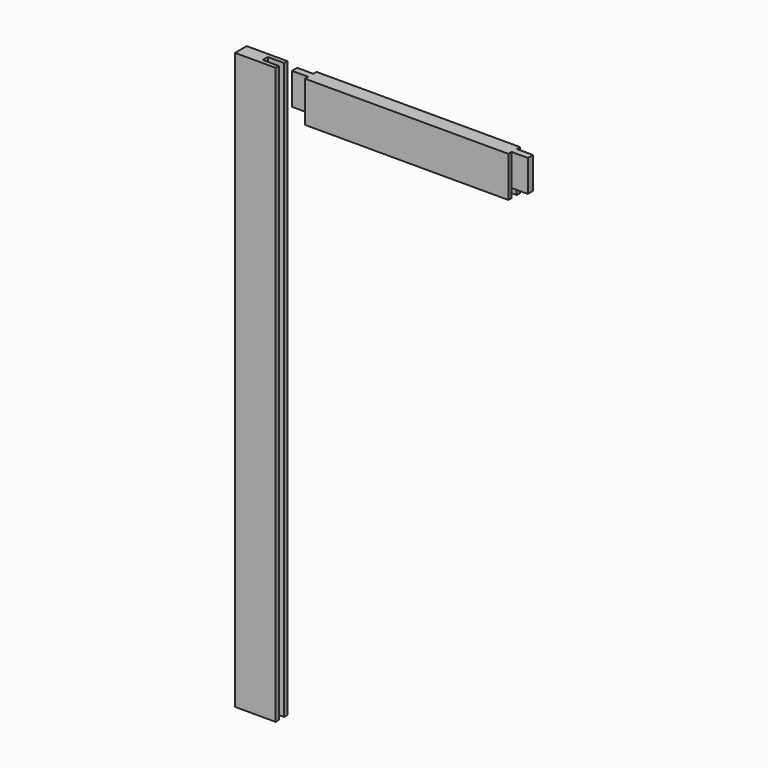
from build123d import *

# Parameters (mm, degrees)
F0_W      = 250
F0_H      = 50
F1_DEPTH  = 9
F0_W_2    = 50
F0_H_2    = 708
F2_W      = 8
F2_H      = 708
F3_DEPTH  = 11
F4_W      = 8
F4_H      = 39
F5_DEPTH  = 9
F6_W      = 8
F6_H      = 708
F7_DEPTH  = 11
F8_W      = 8
F8_H      = 50
F9_DEPTH  = 9
F10_W     = 250
F10_H     = 8
F11_DEPTH = 11
F12_W     = 8
F12_H     = 39
F13_DEPTH = 20
F14_W     = 8
F14_H     = 39
F15_DEPTH = 20


with BuildPart() as f1:
    # F0 (on Front) → F1 (new body, symmetric)
    with BuildSketch(Plane.XZ):
        with Locations((144.3151421845, 329)):
            Rectangle(F0_W, F0_H)
    extrude(amount=F1_DEPTH, both=True)

    # F10 (on face) → F11 (cut)
    with BuildSketch(Plane(origin=(0, 0, 304), x_dir=(1, 0, 0), z_dir=(0, 0, -1))):
        with Locations((144.3151421845, 0)):
            Rectangle(F10_W, F10_H)
    extrude(amount=-F11_DEPTH, mode=Mode.SUBTRACT)

    # F12 (on face) → F13 (join)
    with BuildSketch(Plane(origin=(19.3151421845, 0, 0), x_dir=(0, -1, 0), z_dir=(-1, 0, 0))):
        with Locations((0, 334.5)):
            Rectangle(F12_W, F12_H)
    extrude(amount=F13_DEPTH)

    # F14 (on face) → F15 (join)
    with BuildSketch(Plane.YZ.offset(269.3151421845)):
        with Locations((0, 334.5)):
            Rectangle(F14_W, F14_H)
    extrude(amount=F15_DEPTH)


with BuildPart() as f1b:
    # F0 (on Front) → F1, piece 2 (new body, symmetric)
    with BuildSketch(Plane.XZ):
        with Locations((-41.7115390301, 0)):
            Rectangle(F0_W_2, F0_H_2)
    extrude(amount=F1_DEPTH, both=True)

    # F2 (on face) → F3 (cut)
    with BuildSketch(Plane.YZ.offset(-16.7115390301)):
        Rectangle(F2_W, F2_H)
    extrude(amount=-F3_DEPTH, mode=Mode.SUBTRACT)

    # F4 (on face) → F5 (cut)
    with BuildSketch(Plane.YZ.offset(-27.7115390301)):
        with Locations((0, 334.5)):
            Rectangle(F4_W, F4_H)
        with Locations((0, -334.5)):
            Rectangle(F4_W, F4_H)
    extrude(amount=-F5_DEPTH, mode=Mode.SUBTRACT)


with BuildPart() as f1c:
    # F0 (on Front) → F1, piece 3 (new body, symmetric)
    with BuildSketch(Plane.XZ):
        with Locations((319.8899328709, 0)):
            Rectangle(F0_W_2, F0_H_2)
    extrude(amount=F1_DEPTH, both=True)

    # F6 (on face) → F7 (cut)
    with BuildSketch(Plane(origin=(294.8899328709, 0, 0), x_dir=(0, -1, 0), z_dir=(-1, 0, 0))):
        Rectangle(F6_W, F6_H)
    extrude(amount=-F7_DEPTH, mode=Mode.SUBTRACT)

    # F8 (on face) → F9 (cut)
    with BuildSketch(Plane(origin=(305.8899328709, 0, 0), x_dir=(0, -1, 0), z_dir=(-1, 0, 0))):
        with Locations((0, 329)):
            Rectangle(F8_W, F8_H)
        with Locations((0, -329)):
            Rectangle(F8_W, F8_H)
    extrude(amount=-F9_DEPTH, mode=Mode.SUBTRACT)


with BuildPart() as f1d:
    # F0 (on Front) → F1, piece 4 (new body, symmetric)
    with BuildSketch(Plane.XZ):
        with Locations((144.3151421845, -329)):
            Rectangle(F0_W, F0_H)
    extrude(amount=F1_DEPTH, both=True)


solid = Compound([f1.part, f1b.part])
